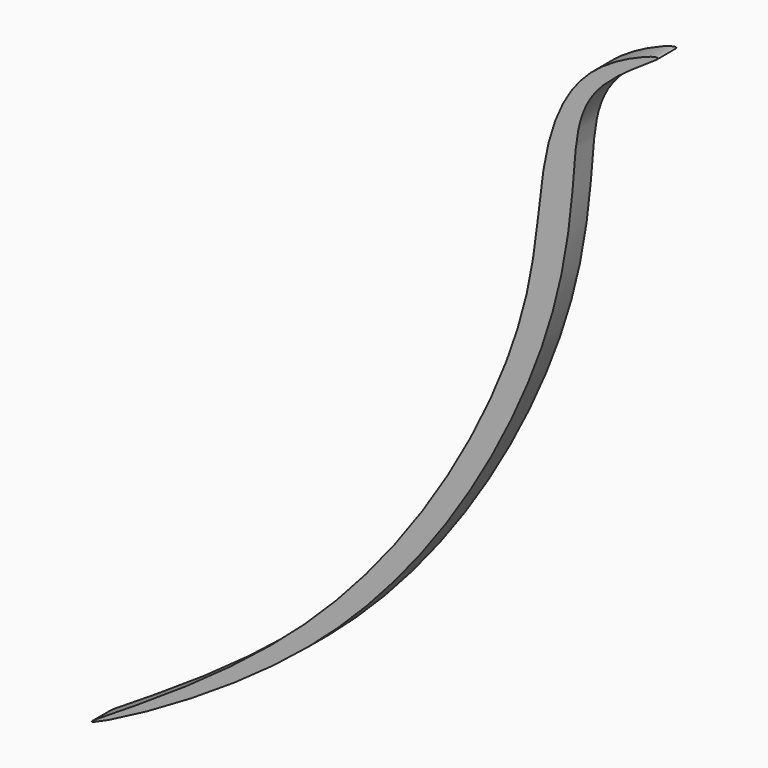
from build123d import *

# Parameters (mm, degrees)
F1_DEPTH = 12.7


with BuildPart() as f1:
    # F0 (on Front) → F1 (new body)
    with BuildSketch(Plane.XZ):
        with BuildLine():
            add(Edge.make_bspline(
                [(-250.0881552696, -203.0799686909), (-251.0820198852, -201.7761201829), (-103.3974517421, -121.5039919298), (-3.2488921562, 63.1824711726), (-5.0090527451, 149.8975841371), (17.4550873316, 205.8107200742), (81.9972235343, 228.8830629397), (18.8424038822, 195.9497531192), (15.6779156854, 147.8596556162), (7.3736690298, 55.9467784161), (-94.2184912477, -128.6581088503), (-249.0848329111, -204.3962247881), (-250.0881552696, -203.0799686909)],
                knots=[0, 0, 0, 0, 0.1200515447, 0.2711164799, 0.3620910537, 0.4395220535, 0.5005023038, 0.5641826936, 0.633109738, 0.7266488021, 0.8788060294, 1, 1, 1, 1], degree=3))
        make_face()
    extrude(amount=F1_DEPTH)


solid = f1.part
